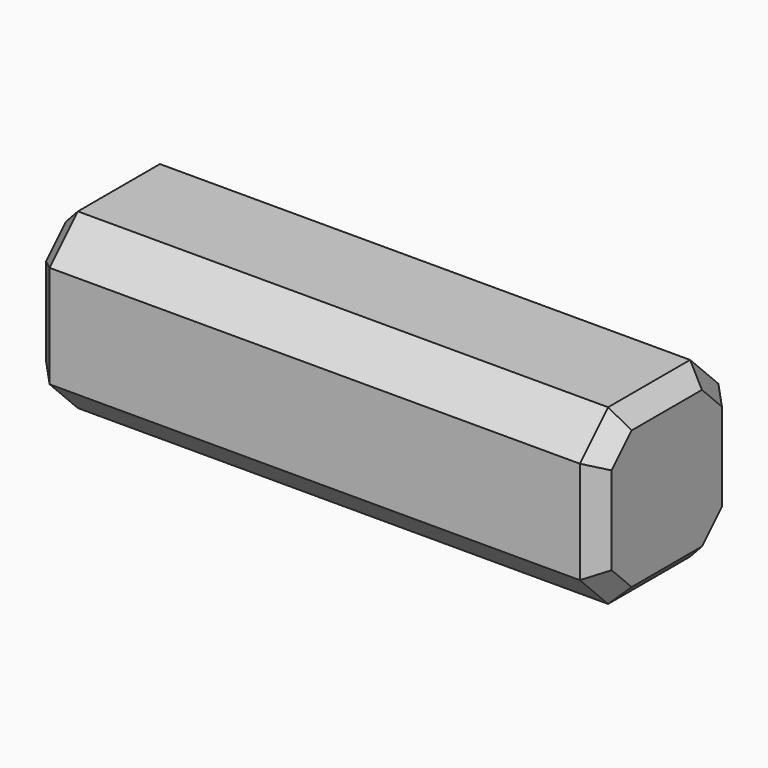
from build123d import *

# Parameters (mm, degrees)
BOX_W           = 32
BOX_H           = 9.8
BOX_DEPTH       = 9.8
CHAMFER_SIZE    = 2
CHAMFER001_SIZE = 1
CHAMFER002_SIZE = 1


with BuildPart() as part:
    # Box → Box (new body)
    with BuildSketch(Plane.XY):
        with Locations((16, 4.9)):
            Rectangle(BOX_W, BOX_H)
    extrude(amount=BOX_DEPTH)

    # Chamfer
    chamfer_edges = [part.edges().sort_by_distance(p)[0] for p in [
        (16, 0, 0),
        (16, 0, 9.8),
        (16, 9.8, 0),
        (16, 9.8, 9.8),
    ]]
    chamfer(chamfer_edges, length=CHAMFER_SIZE)

    # Chamfer001
    chamfer001_edges = [part.edges().sort_by_distance(p)[0] for p in [
        (0, 0, 4.9),
        (0, 1, 1),
        (0, 1, 8.8),
        (0, 4.9, 0),
        (0, 4.9, 9.8),
        (0, 8.8, 1),
        (0, 8.8, 8.8),
        (0, 9.8, 4.9),
    ]]
    chamfer(chamfer001_edges, length=CHAMFER001_SIZE)

    # Chamfer002
    chamfer002_edges = [part.edges().sort_by_distance(p)[0] for p in [
        (32, 0, 4.9),
        (32, 1, 1),
        (32, 1, 8.8),
        (32, 4.9, 0),
        (32, 4.9, 9.8),
        (32, 8.8, 1),
        (32, 8.8, 8.8),
        (32, 9.8, 4.9),
    ]]
    chamfer(chamfer002_edges, length=CHAMFER002_SIZE)


solid = part.part
